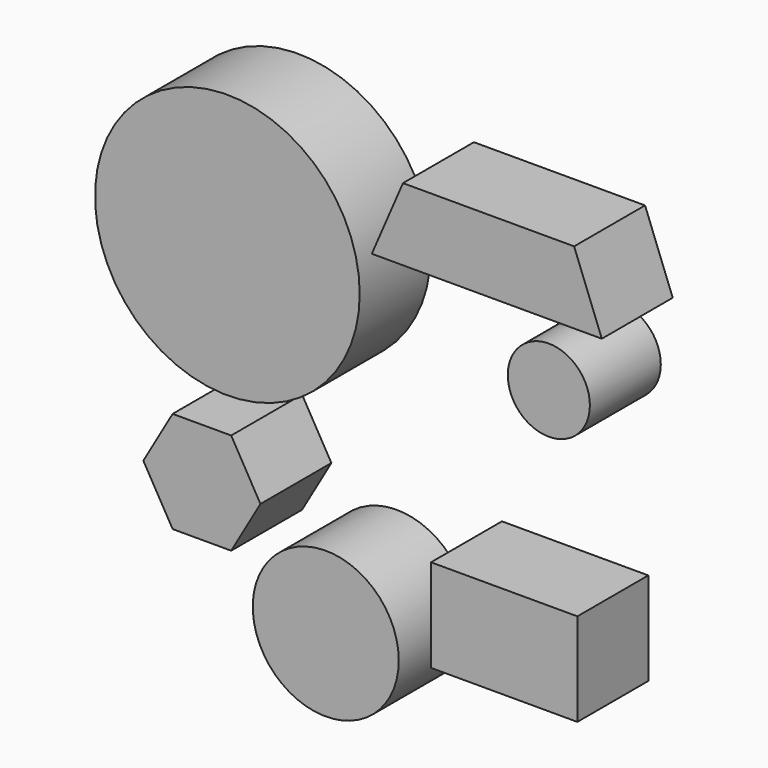
from build123d import *

# Parameters (mm, degrees)
F0_R     = 11.576123
F0_W     = 41.273395
F0_H     = 26.210126
F0_R_2   = 20.585372
F1_DEPTH = 25
F0_R_3   = 37.32219
F2_DEPTH = 25


with BuildPart() as f1:
    # F0 (on Front) → F1 (new body)
    with BuildSketch(Plane.XZ):
        with Locations((52.660342, 29.913982)):
            Circle(F0_R)
        Polygon((11.535029, 67.932874), (2.745594, 47.538631), (67.601331, 47.538631), (59.796392, 67.932874), align=None)
        with Locations((40.076329, -36.721451)):
            Rectangle(F0_W, F0_H)
        with Locations((-10.239367, -50.974935)):
            Circle(F0_R_2)
        Polygon((-53.423255, -39.072424), (-36.911123, -39.072424), (-28.655058, -24.772499), (-36.911123, -10.472573), (-53.423255, -10.472573), (-61.679321, -24.772499), align=None)
    extrude(amount=F1_DEPTH)


with BuildPart() as f2:
    # F0 (on Front) → F2 (new body)
    with BuildSketch(Plane.XZ):
        with Locations((-37.983231, 36.466777)):
            Circle(F0_R_3)
    extrude(amount=F2_DEPTH)


solid = Compound([f1.part, f2.part])
